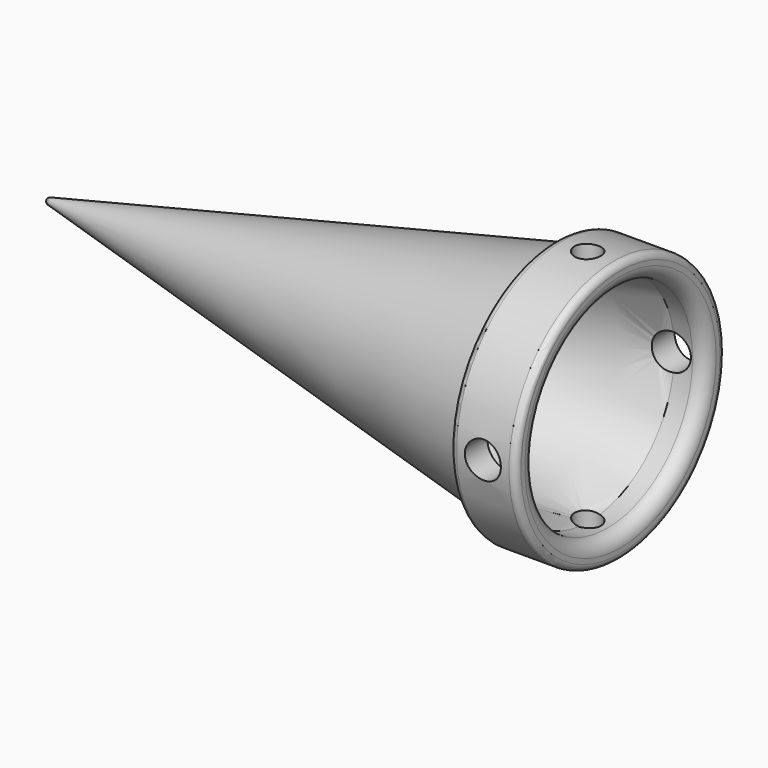
from build123d import *

# Parameters (mm, degrees)
SKETCH017_R      = 2
EXTRUDE017_DEPTH = 40
SKETCH016_R      = 2.75
EXTRUDE016_DEPTH = 40
SKETCH015_R      = 20
SKETCH015_R_2    = 16.25
EXTRUDE015_DEPTH = 10
FILLET013_R      = 1
FILLET014_R      = 2


with BuildPart() as extrude017:
    # Sketch017 → Extrude017 (new body)
    with BuildSketch(Plane.XY.offset(-60)):
        with Locations((-245, 0)):
            Circle(SKETCH017_R)
    extrude(amount=EXTRUDE017_DEPTH)


with BuildPart() as fusion134:
    # Sketch016 → Extrude016 (new body)
    with BuildSketch(Plane.XZ.offset(-20)):
        with Locations((-245, -40)):
            Circle(SKETCH016_R)
    extrude(amount=EXTRUDE016_DEPTH)

    # Fusion134: union Extrude017
    add(extrude017.part)


with BuildPart() as extrude015:
    # Sketch015 → Extrude015 (new body)
    with BuildSketch(Plane.YZ.offset(-250)):
        with Locations((0, -40)):
            Circle(SKETCH015_R)
        with Locations((0, -40)):
            Circle(SKETCH015_R_2, mode=Mode.SUBTRACT)
    extrude(amount=EXTRUDE015_DEPTH)


with BuildPart() as sphere:
    # Sphere → Sphere (revolve)
    with BuildSketch(Plane(origin=(-318, 0, 0), x_dir=(1, 0, 0), z_dir=(0, -1, 0))):
        with BuildLine():
            ThreePointArc((0, -0.5), (0.5, 0), (0, 0.5))
            Line((0, 0.5), (0, -0.5))
        make_face()
    revolve(axis=Axis((-318, 0, 0), (0, 0, 1)))


with BuildPart() as cone006:
    # Cone006 → Cone006 (revolve)
    with BuildSketch(Plane(origin=(-308, 0, 0), x_dir=(0, 0, -1), z_dir=(0, -1, 0))):
        Polygon((0, 0), (16.25, 82.25), (0, 82.25), align=None)
    revolve(axis=Axis((-308, 0, 0), (1, 0, 0)))


with BuildPart() as obj1:
    # Cone005 → Cone005 (revolve)
    with BuildSketch(Plane(origin=(-308, 0, 0), x_dir=(0, 0, -1), z_dir=(0, -1, 0))):
        Polygon((0, 0), (0.5, 0), (19, 82.25), (0, 82.25), align=None)
    revolve(axis=Axis((-308, 0, 0), (1, 0, 0)))

    # Cut015: cut Cone006
    add(cone006.part, mode=Mode.SUBTRACT)


with BuildPart() as obj1_1:
    # Cut015 placement: moved
    add(obj1.part.moved(Location((-10, 0, 0))))

    # Fusion127: union Sphere
    add(sphere.part)


with BuildPart() as obj1_2:
    # Fusion127 placement: moved
    add(obj1_1.part.moved(Location((-9, 0, -40))))

    # Fusion135: union Extrude015
    add(extrude015.part)

    # Cut019: cut Fusion134
    add(fusion134.part, mode=Mode.SUBTRACT)

    # Fillet013
    fillet013_edges = [obj1_2.edges().sort_by_distance(p)[0] for p in [
        (-250, -20, -40),
        (-240, -20, -40),
        (-250, 0, -22.180851),
    ]]
    fillet(fillet013_edges, radius=FILLET013_R)

    # Fillet014
    fillet014_edges = [obj1_2.edges().sort_by_distance(p)[0] for p in [
        (-240, -16.25, -40),
    ]]
    fillet(fillet014_edges, radius=FILLET014_R)


solid = obj1_2.part
